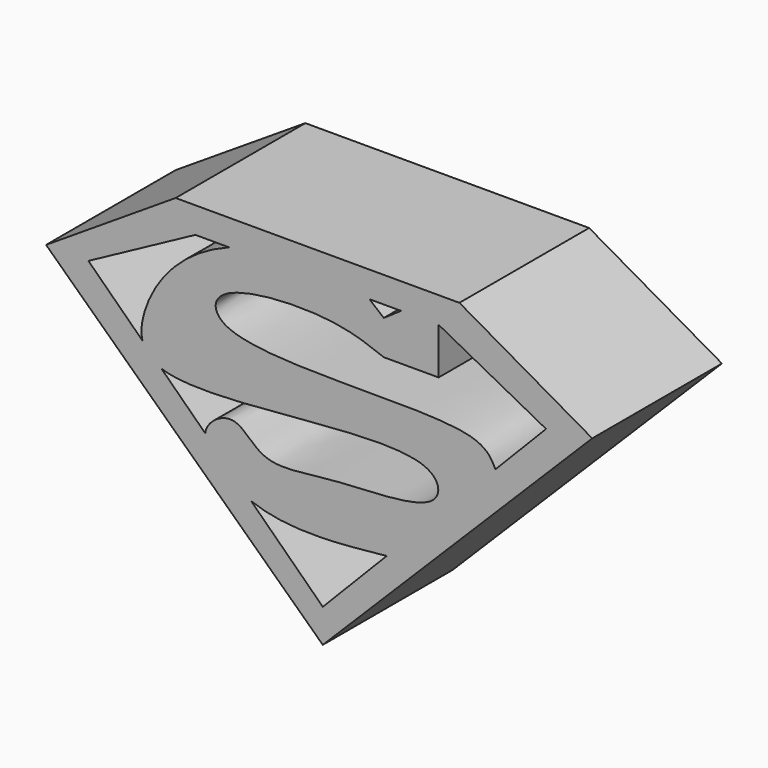
from build123d import *

# Parameters (mm, degrees)
F1_DEPTH = 50.8


with BuildPart() as f1:
    # F0 (on Front) → F1 (new body)
    with BuildSketch(Plane.XZ):
        Polygon((42.8139790893, 48.5327467322), (-46.1068861187, 48.5327467322), (-86.7131575942, 22.3913900554), (0, -59.7579181194), (84.4312310219, 24.6733147651), align=None)
        with BuildLine():
            Line((0, -49.2601079148), (-22.4392601443, -27.3983288212))
            add(Edge.make_bspline(
                [(-22.4392601443, -27.3983288212), (-10.3736160037, -31.8857986211), (4.8388807016, -30.2985507846), (20.0164040618, -28.7149685657)],
                knots=[0.8697267314, 0.8697267314, 0.8697267314, 0.8697267314, 1, 1, 1, 1], degree=3))
            Line((20.0164040618, -28.7149685657), (0, -49.2601079148))
        make_face(mode=Mode.SUBTRACT)
        with BuildLine():
            Line((-36.8594226393, -13.3492735078), (-50.5613185232, 0))
            add(Edge.make_bspline(
                [(-50.5613185232, 0), (-34.594195391, -5.5755217109), (33.9571013413, 9.6518252733), (38.7814875684, -12.9370721173), (2.361993239, -12.0508571536), (-19.0652817801, -17.2148074093), (-27.2819615194, -3.4022296448), (-36.3530555491, -9.74744955), (-36.8594226393, -13.3492735078)],
                knots=[0.1994086275, 0.1994086275, 0.1994086275, 0.1994086275, 0.3806593926, 0.439898091, 0.552957602, 0.6472411988, 0.7153144049, 0.7800392485, 0.7800392485, 0.7800392485, 0.7800392485], degree=3))
        make_face(mode=Mode.SUBTRACT)
        with BuildLine():
            Line((-73.4394822067, 22.2893873193), (-39.9312501347, 40.3615534306))
            Line((-39.9312501347, 40.3615534306), (-29.3797869235, 40.3615534306))
            add(Edge.make_bspline(
                [(-29.3797869235, 40.3615534306), (-44.8898971081, 34.454703331), (-55.5649465868, 20.0618318815), (-57.1293154368, 8.1559515897), (-56.5142302299, 5.7997117488)],
                knots=[0, 0, 0, 0, 0.1224299889, 0.159580752, 0.159580752, 0.159580752, 0.159580752], degree=3))
            Line((-56.5142302299, 5.7997117488), (-73.4394822067, 22.2893873193))
        make_face(mode=Mode.SUBTRACT)
        with BuildLine():
            add(Edge.make_bspline(
                [(36.2942307097, 40.3615534306), (36.2942307097, 35.5078813536), (36.2942307097, 30.6679519908), (36.2942307097, 25.8142799139)],
                knots=[0, 0, 0, 0, 14.5472735167, 14.5472735167, 14.5472735167, 14.5472735167], degree=3))
            Line((36.2942307097, 40.3615534306), (69.9733167514, 22.5615608992))
            Line((69.9733167514, 22.5615608992), (54.0895060836, 6.2581778062))
            add(Edge.make_bspline(
                [(19.111122936, 25.8142799139), (13.8479000757, 27.8529717323), (1.8174713939, 32.5129181522), (-35.8152425943, 30.003164995), (-32.0254529515, 10.2051564982), (47.9834132494, 18.5761521201), (52.7746580758, 8.9106536899), (54.0895060836, 6.2581778062)],
                knots=[0, 0, 0, 0, 0.1778094364, 0.4064284945, 0.5205229582, 0.8684184474, 1, 1, 1, 1], degree=3))
            add(Edge.make_bspline(
                [(36.2942307097, 25.8142799139), (30.5665281185, 25.8142799139), (24.8388255272, 25.8142799139), (19.111122936, 25.8142799139)],
                knots=[0, 0, 0, 0, 17.1831077737, 17.1831077737, 17.1831077737, 17.1831077737], degree=3))
        make_face(mode=Mode.SUBTRACT)
        with BuildLine():
            Line((14.6225690842, 40.3615534306), (24.5306938887, 40.3615534306))
            add(Edge.make_bspline(
                [(24.5306938887, 40.3615534306), (22.7241702378, 39.1209286554), (20.9176465869, 37.8940465944), (19.111122936, 36.6534218192)],
                knots=[0, 0, 0, 0, 6.5667335379, 6.5667335379, 6.5667335379, 6.5667335379], degree=3))
            Line((19.111122936, 36.6534218192), (14.6225690842, 40.3615534306))
        make_face(mode=Mode.SUBTRACT)
    extrude(amount=F1_DEPTH)


solid = f1.part
